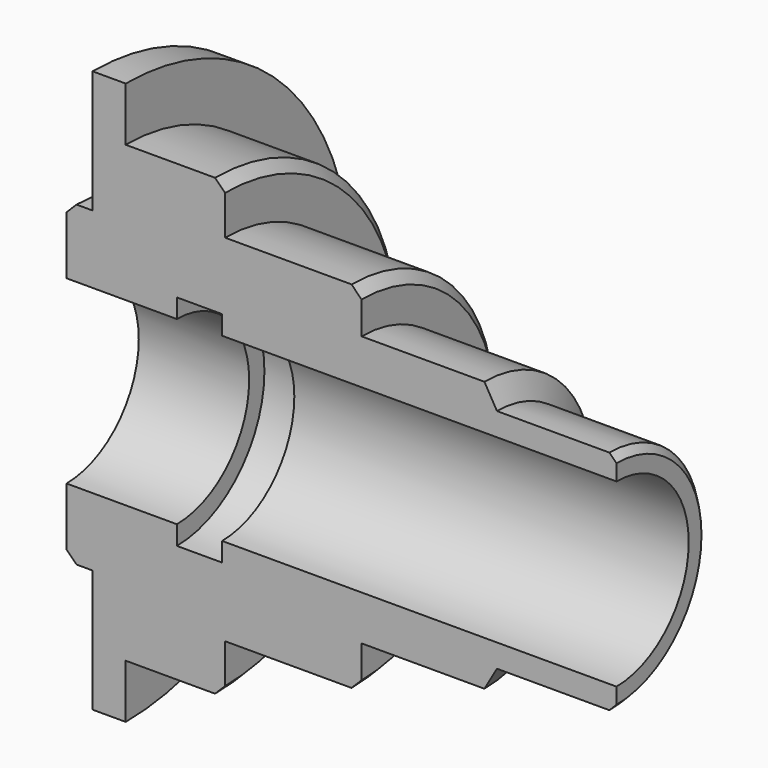
from build123d import *

# Parameters (mm, degrees)
F2_W     = 76.4627605677
F2_H     = 78.6305181682
F3_DEPTH = 35.561
F4_SIZE  = 1.27
F6_D     = 4.953
F6_DEPTH = 11.43
F6_TIP   = 1.488031323


with BuildPart() as f1:
    # F0 (on Front) → F1 (revolve)
    with BuildSketch(Plane.XZ):
        Polygon((-49.911, 11.43), (0, 11.43), (0, 13.4529743879), (-0.8980256121, 14.351), (-15.1220256121, 14.351), (-16.7095256121, 17.100630657), (-32.258, 17.100630657), (-32.258, 22.479), (-49.53, 22.479), (-49.53, 28.7401), (-62.103, 28.7401), (-62.103, 35.56), (-66.294, 35.56), (-66.294, 20.0533), (-69.596, 20.0533), (-69.596, 11.43), (-55.626, 11.43), (-55.626, 13.843), (-49.911, 13.843), align=None)
    revolve(axis=Axis((-34.5281772316, 0, 0), (-1, 0, 0)))

    # F2 (on Front) → F3 (cut, through all)
    with BuildSketch(Plane.XZ):
        with Locations((-38.2313802838, 0.098535791)):
            Rectangle(F2_W, F2_H)
    extrude(amount=F3_DEPTH, mode=Mode.SUBTRACT)

    # F4
    f4_edges = [f1.edges().sort_by_distance(p)[0] for p in [
        (-69.596, 20.0533, 0),
        (-49.53, 28.7401, 0),
        (-32.258, 22.479, 0),
    ]]
    chamfer(f4_edges, length=F4_SIZE)

    # F6
    with Locations(Plane(origin=(-69.596, 0, 0), x_dir=(0, -1, 0), z_dir=(-1, 0, 0))):
        with Locations((-14.1731563031, 0)):
            Hole(F6_D / 2, depth=F6_DEPTH)
            with Locations((0, 0, -(F6_DEPTH + F6_TIP / 2))):  # 118° drill point
                Cone(0, F6_D / 2, F6_TIP, mode=Mode.SUBTRACT)


solid = f1.part
